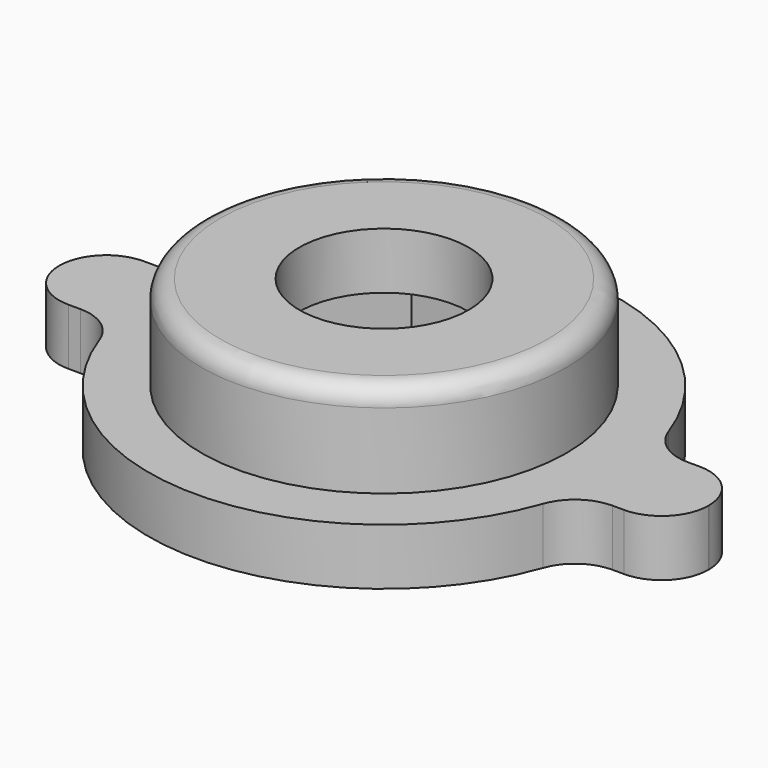
from build123d import *

# Parameters (mm, degrees)
PAD_DEPTH       = 3
SKETCH001_R     = 9.7
PAD001_DEPTH    = 5
SKETCH002_R     = 4.5
POCKET_DEPTH    = 8.001
POCKET001_DEPTH = 5
FILLET_R        = 1
FILLET001_R     = 2.49


with BuildPart() as part:
    # Sketch → Pad (new body)
    with BuildSketch(Plane.XY):
        with BuildLine():
            ThreePointArc((12.247449, 2.5), (0, 12.5), (-12.247449, 2.5))
            Line((-12.247449, 2.5), (-17.247449, 2.5))
            Line((-17.247449, 2.5), (-17.247449, -2.5))
            Line((-17.247449, -2.5), (-12.247449, -2.5))
            ThreePointArc((-12.247449, -2.5), (0, -12.5), (12.247449, -2.5))
            Line((17.247449, -2.5), (12.247449, -2.5))
            Line((17.247449, 2.5), (17.247449, -2.5))
            Line((12.247449, 2.5), (17.247449, 2.5))
        make_face()
    extrude(amount=PAD_DEPTH)

    # Sketch001 → Pad001 (new body)
    with BuildSketch(Plane.XY.offset(3)):
        Circle(SKETCH001_R)
    extrude(amount=PAD001_DEPTH)

    # Sketch002 → Pocket (cut, through all)
    with BuildSketch(Plane.XY.offset(8)):
        Circle(SKETCH002_R)
    extrude(amount=-POCKET_DEPTH, mode=Mode.SUBTRACT)

    # Sketch003 → Pocket001 (cut)
    with BuildSketch(Plane(origin=(0, 0, 0), x_dir=(1, 0, 0), z_dir=(0, 0, -1))):
        Polygon((3.810512, -6.6), (7.621024, 0), (3.810512, 6.6), (-3.810512, 6.6), (-7.621024, 0), (-3.810512, -6.6), align=None)
    extrude(amount=-POCKET001_DEPTH, mode=Mode.SUBTRACT)

    # Fillet
    fillet_edges = [part.edges().sort_by_distance(p)[0] for p in [
        (-9.7, 0, 8),
    ]]
    fillet(fillet_edges, radius=FILLET_R)

    # Fillet001
    fillet001_edges = [part.edges().sort_by_distance(p)[0] for p in [
        (12.247449, 2.5, 1.5),
        (17.247449, 2.5, 1.5),
        (17.247449, -2.5, 1.5),
        (12.247449, -2.5, 1.5),
        (-12.247449, -2.5, 1.5),
        (-17.247449, -2.5, 1.5),
        (-17.247449, 2.5, 1.5),
        (-12.247449, 2.5, 1.5),
    ]]
    fillet(fillet001_edges, radius=FILLET001_R)


solid = part.part
